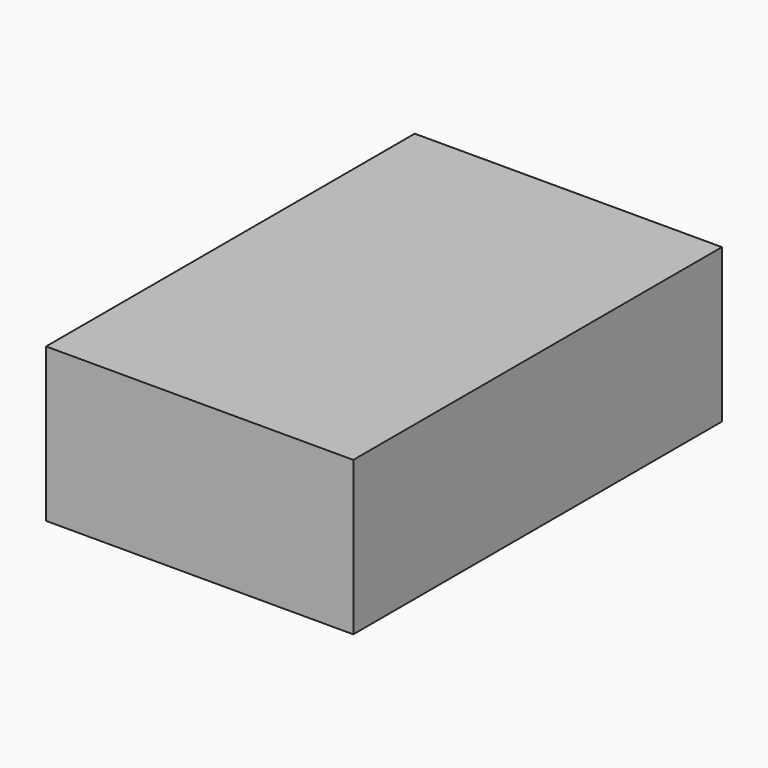
from build123d import *

# Parameters (mm, degrees)
F0_W     = 19.05
F0_H     = 19.05
F1_DEPTH = 57.15


with BuildPart() as f1:
    # F0 (on Front) → F1 (new body)
    with BuildSketch(Plane.XZ):
        with Locations((-51.253575, 9.525)):
            Rectangle(F0_W, F0_H)
        with Locations((-32.203575, 9.525)):
            Rectangle(F0_W, F0_H)
    extrude(amount=-F1_DEPTH)


solid = f1.part
